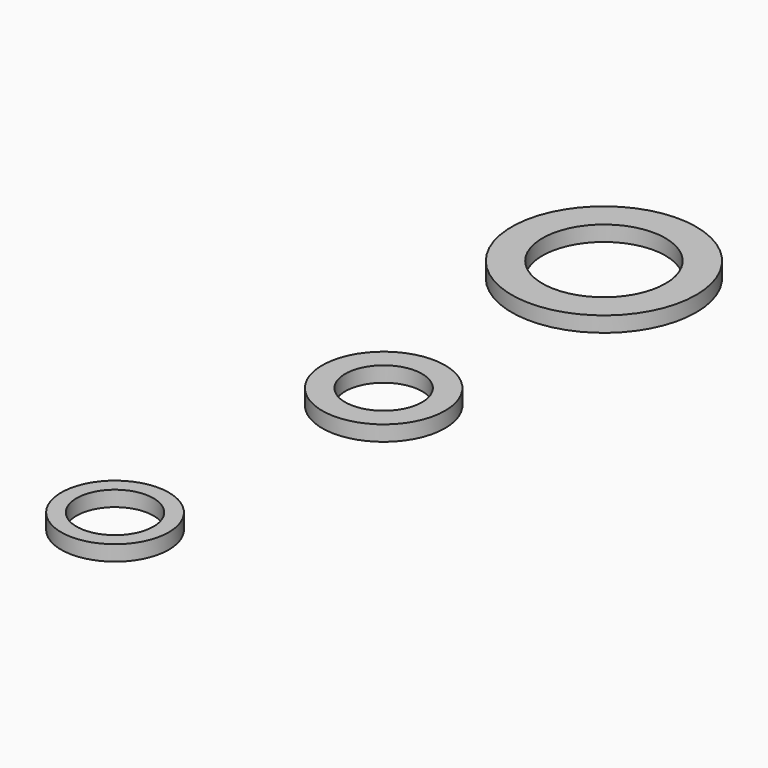
from build123d import *

# Parameters (mm, degrees)
F0_R     = 6
F0_R_2   = 4
F1_DEPTH = 1
F2_R     = 4
F2_R_2   = 2.5
F3_DEPTH = 1
F4_R     = 3.5
F4_R_2   = 2.5
F5_DEPTH = 1


with BuildPart() as f1:
    # F0 (on Top) → F1 (new body)
    with BuildSketch(Plane.XY):
        Circle(F0_R)
        Circle(F0_R_2, mode=Mode.SUBTRACT)
    extrude(amount=F1_DEPTH)


with BuildPart() as f3:
    # F2 (on Top) → F3 (new body)
    with BuildSketch(Plane.XY):
        with Locations((0, -17.906435)):
            Circle(F2_R)
        with Locations((0, -17.906435)):
            Circle(F2_R_2, mode=Mode.SUBTRACT)
    extrude(amount=F3_DEPTH)


with BuildPart() as f5:
    # F4 (on Top) → F5 (new body)
    with BuildSketch(Plane.XY):
        with Locations((-2.10694, -37.106194)):
            Circle(F4_R)
        with Locations((-2.10694, -37.106194)):
            Circle(F4_R_2, mode=Mode.SUBTRACT)
    extrude(amount=F5_DEPTH)


solid = Compound([f1.part, f3.part, f5.part])
